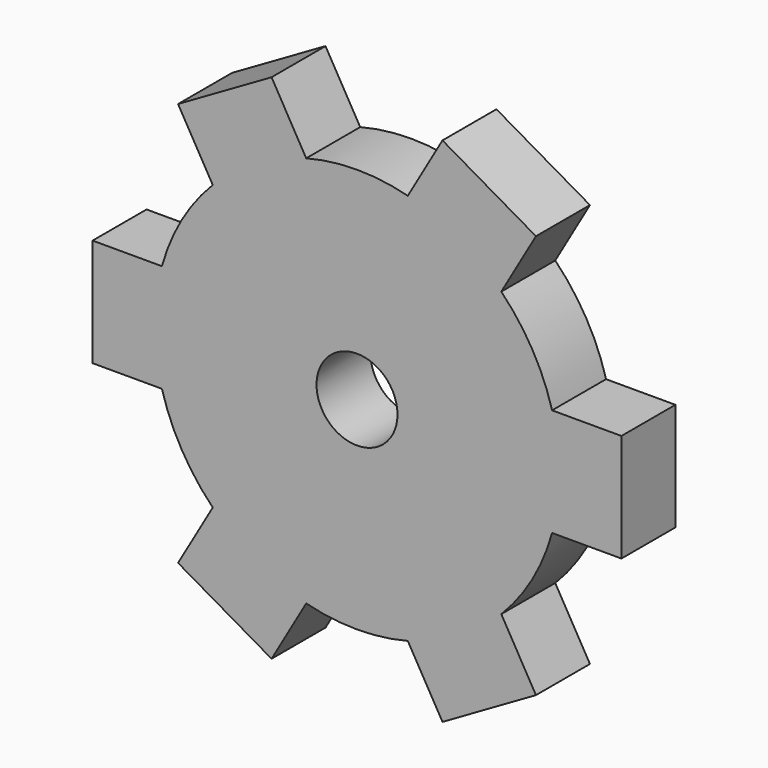
from build123d import *

# Parameters (mm, degrees)
F0_R     = 15
F1_DEPTH = 25


with BuildPart() as f1:
    # F0 (on Front) → F1 (new body)
    with BuildSketch(Plane.XZ):
        with BuildLine():
            ThreePointArc((-72.284161, -20), (-75, 0), (-72.284161, 20))
            Line((-72.284161, 20), (-97.97959, 20))
            Line((-97.97959, 20), (-97.97959, -20))
            Line((-97.97959, -20), (-72.284161, -20))
        make_face()
        with BuildLine():
            Line((-31.669287, -94.852814), (-18.821573, -72.59992))
            ThreePointArc((-18.821573, -72.59992), (-37.5, -64.951905), (-53.462589, -52.59992))
            Line((-53.462589, -52.59992), (-66.310303, -74.852814))
            Line((-66.310303, -74.852814), (-31.669287, -94.852814))
        make_face()
        with BuildLine():
            Line((66.310303, -74.852814), (53.462589, -52.59992))
            ThreePointArc((53.462589, -52.59992), (37.5, -64.951905), (18.821573, -72.59992))
            Line((18.821573, -72.59992), (31.669287, -94.852814))
            Line((31.669287, -94.852814), (66.310303, -74.852814))
        make_face()
        with BuildLine():
            ThreePointArc((72.284161, 20), (74.317939, 10.091776), (75, 0))
            ThreePointArc((75, 0), (74.317939, -10.091776), (72.284161, -20))
            Line((72.284161, -20), (97.97959, -20))
            Line((97.97959, -20), (97.97959, 20))
            Line((97.97959, 20), (72.284161, 20))
        make_face()
        with BuildLine():
            ThreePointArc((18.821573, 72.59992), (37.5, 64.951905), (53.462589, 52.59992))
            Line((53.462589, 52.59992), (66.310303, 74.852814))
            Line((66.310303, 74.852814), (31.669287, 94.852814))
            Line((31.669287, 94.852814), (18.821573, 72.59992))
        make_face()
        with BuildLine():
            ThreePointArc((-53.462589, 52.59992), (-37.5, 64.951905), (-18.821573, 72.59992))
            Line((-18.821573, 72.59992), (-31.669287, 94.852814))
            Line((-31.669287, 94.852814), (-66.310303, 74.852814))
            Line((-66.310303, 74.852814), (-53.462589, 52.59992))
        make_face()
        with BuildLine():
            ThreePointArc((72.284161, -20), (74.317939, -10.091776), (75, 0))
            ThreePointArc((75, 0), (74.317939, 10.091776), (72.284161, 20))
            ThreePointArc((72.284161, 20), (64.951905, 37.5), (53.462589, 52.59992))
            ThreePointArc((53.462589, 52.59992), (37.5, 64.951905), (18.821573, 72.59992))
            ThreePointArc((18.821573, 72.59992), (0, 75), (-18.821573, 72.59992))
            ThreePointArc((-18.821573, 72.59992), (-37.5, 64.951905), (-53.462589, 52.59992))
            ThreePointArc((-53.462589, 52.59992), (-64.951905, 37.5), (-72.284161, 20))
            ThreePointArc((-72.284161, 20), (-75, 0), (-72.284161, -20))
            ThreePointArc((-72.284161, -20), (-64.951905, -37.5), (-53.462589, -52.59992))
            ThreePointArc((-53.462589, -52.59992), (-37.5, -64.951905), (-18.821573, -72.59992))
            ThreePointArc((-18.821573, -72.59992), (0, -75), (18.821573, -72.59992))
            ThreePointArc((18.821573, -72.59992), (37.5, -64.951905), (53.462589, -52.59992))
            ThreePointArc((53.462589, -52.59992), (64.951905, -37.5), (72.284161, -20))
        make_face()
        Circle(F0_R, mode=Mode.SUBTRACT)
    extrude(amount=F1_DEPTH)


solid = f1.part
